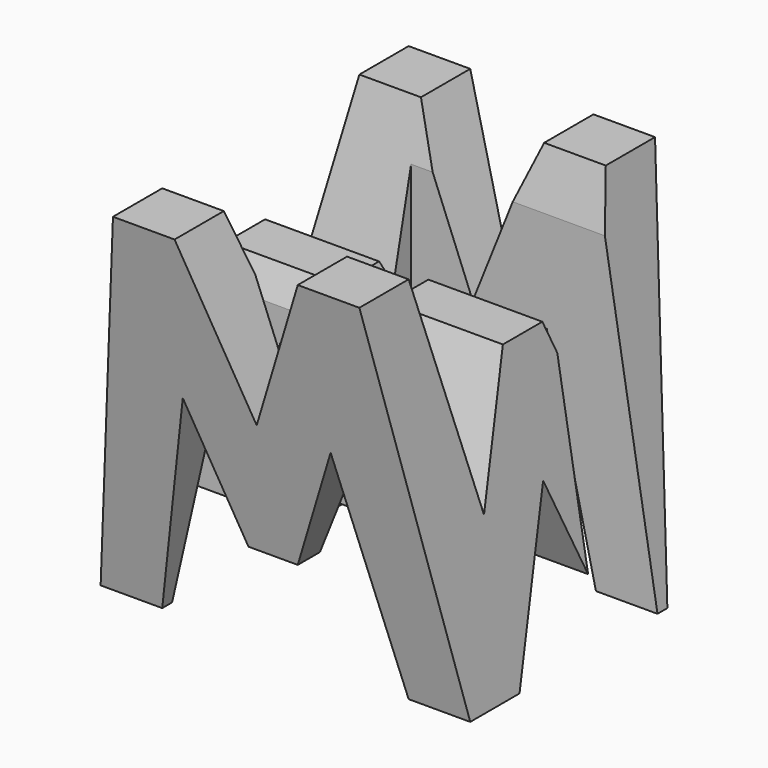
from build123d import *

# Parameters (mm, degrees)
F0_W     = 38.1
F0_H     = 38.1
F1_DEPTH = 38.1
F5_DEPTH = 38.1
F7_DEPTH = 38.1
F8_W     = 25.4
F8_H     = 7.62
F9_DEPTH = 38.1


with BuildPart() as f1:
    # F0 (on Front) → F1 (new body)
    with BuildSketch(Plane.XZ):
        with Locations((19.05, 19.05)):
            Rectangle(F0_W, F0_H)
    extrude(amount=F1_DEPTH)

    # F4 (on face) → F5 (cut)
    with BuildSketch(Plane.YZ.offset(38.1)):
        Polygon((-6.35, 38.1), (-31.75, 38.1), (-26.67, 15.875), (-21.59, 28.575), (-16.51, 28.575), (-11.43, 15.875), align=None)
        Polygon((0, 0), (0, 38.1), (-6.35, 0), align=None)
        Polygon((-19.05, 15.875), (-25.4, 0), (-12.7, 0), align=None)
        Polygon((-31.75, 0), (-38.1, 38.1), (-38.1, 0), align=None)
    extrude(amount=-F5_DEPTH, mode=Mode.SUBTRACT)

    # F6 (on offset) → F7 (cut)
    with BuildSketch(Plane.XZ.offset(38.1)):
        Polygon((0, 38.1), (0, 0), (6.35, 38.1), align=None)
        Polygon((25.4, 38.1), (12.7, 38.1), (19.05, 22.225), align=None)
        Polygon((31.75, 38.1), (38.1, 0), (38.1, 38.1), align=None)
        Polygon((11.43, 22.225), (6.35, 0), (31.75, 0), (26.67, 22.225), (21.59, 9.525), (16.51, 9.525), align=None)
    extrude(amount=-F7_DEPTH, mode=Mode.SUBTRACT)

    # F8 (on offset) → F9 (cut)
    with BuildSketch(Plane.XY.offset(38.1)):
        with Locations((25.4, -11.43)):
            Rectangle(F8_W, F8_H)
        with Locations((12.7, -26.67)):
            Rectangle(F8_W, F8_H)
    extrude(amount=-F9_DEPTH, mode=Mode.SUBTRACT)


solid = f1.part
